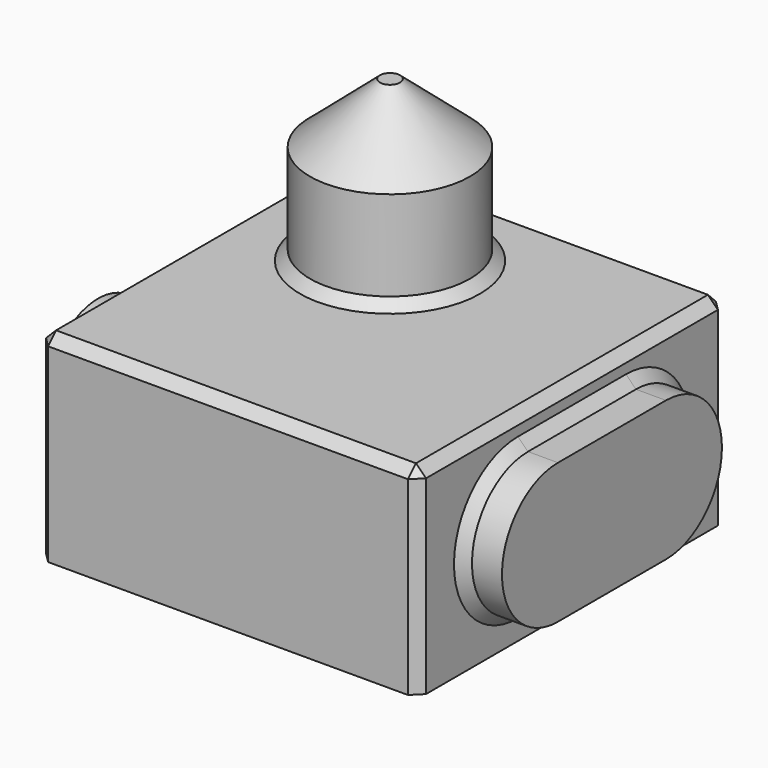
from build123d import *

# Parameters (mm, degrees)
F0_W      = 19
F0_H      = 19.25
F1_DEPTH  = 10
F2_R      = 4
F3_DEPTH  = 8
F4_SIZE2  = 3
F4_SIZE   = 3.5
F5_R      = 3.25
F6_DEPTH  = 2
F8_DEPTH  = 2
F9_SIZE   = 0.5
F10_R     = 1.35
F11_DEPTH = 8


with BuildPart() as f1:
    # F0 (on Top) → F1 (new body)
    with BuildSketch(Plane.XY):
        with Locations((9.5, 9.625)):
            Rectangle(F0_W, F0_H)
    extrude(amount=F1_DEPTH)

    # F2 (on face) → F3 (join)
    with BuildSketch(Plane.XY.offset(10)):
        with Locations((7, 13.25)):
            Circle(F2_R)
    extrude(amount=F3_DEPTH)

    # F4
    f4_edges = [f1.edges().sort_by_distance(p)[0] for p in [
        (3, 13.25, 18),
    ]]
    f4_side = f1.faces().sort_by_distance((7, 13.25, 18))[0]
    chamfer(f4_edges, length=F4_SIZE, length2=F4_SIZE2, reference=f4_side)

    # F5 (on face) → F6 (join)
    with BuildSketch(Plane(origin=(0, 0, 0), x_dir=(0, -1, 0), z_dir=(-1, 0, 0))):
        with Locations((-6.25, 5)):
            Circle(F5_R)
    extrude(amount=F6_DEPTH)

    # F7 (on face) → F8 (join)
    with BuildSketch(Plane.YZ.offset(19)):
        with BuildLine():
            Line((13, 8.5), (6.25, 8.5))
            ThreePointArc((6.25, 8.5), (2.75, 5), (6.25, 1.5))
            Line((6.25, 1.5), (13, 1.5))
            ThreePointArc((13, 1.5), (16.5, 5), (13, 8.5))
        make_face()
    extrude(amount=F8_DEPTH)

    # F9
    f9_edges = [f1.edges().sort_by_distance(p)[0] for p in [
        (19, 19.25, 5),
        (0, 19.25, 5),
        (0, 0, 5),
        (19, 0, 5),
        (0, 9.625, 10),
        (9.5, 19.25, 10),
        (9.5, 0, 10),
        (19, 9.625, 10),
        (3, 13.25, 10),
        (0, 9.5, 5),
        (19, 9.625, 8.5),
    ]]
    chamfer(f9_edges, length=F9_SIZE)

    # F10 (on face) → F11 (cut)
    with BuildSketch(Plane(origin=(0, 0, 0), x_dir=(1, 0, 0), z_dir=(0, 0, -1))):
        with Locations((9.5, -9.625)):
            Circle(F10_R)
    extrude(amount=-F11_DEPTH, mode=Mode.SUBTRACT)


solid = f1.part
